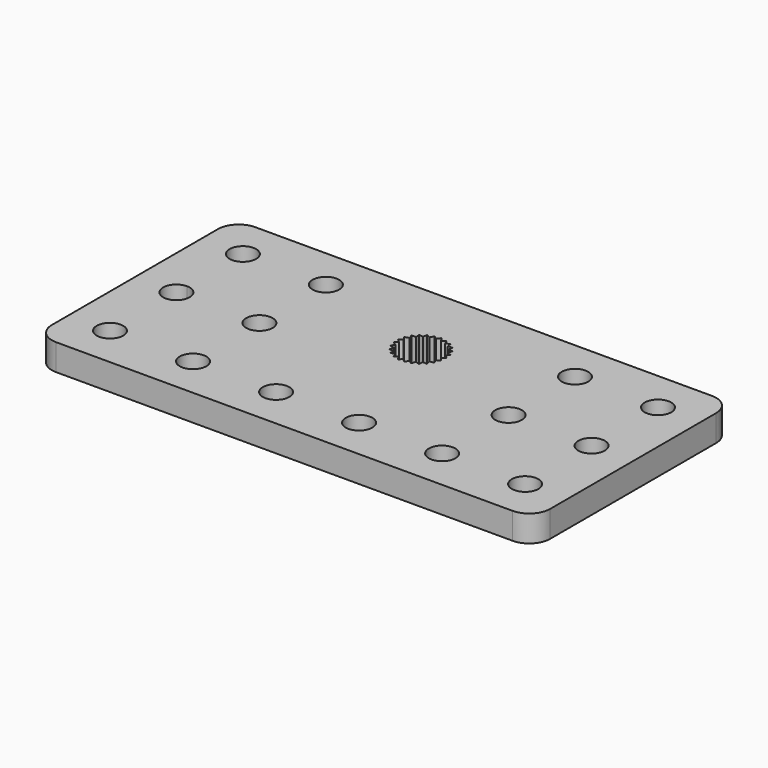
from build123d import *

# Parameters (mm, degrees)
F0_R     = 1.6
F1_DEPTH = 3.175


with BuildPart() as f1:
    # F0 (on Top) → F1 (new body)
    with BuildSketch(Plane.XY):
        with BuildLine():
            ThreePointArc((0.286293, 2.742051), (1.018526, 0.974284), (2.786293, 0.242051))
            Line((2.786293, 0.242051), (57.786293, 0.242051))
            ThreePointArc((57.786293, 0.242051), (59.55406, 0.974284), (60.286293, 2.742051))
            Line((60.286293, 2.742051), (60.286293, 27.742051))
            ThreePointArc((60.286293, 27.742051), (59.55406, 29.509818), (57.786293, 30.242051))
            Line((57.786293, 30.242051), (2.786293, 30.242051))
            ThreePointArc((2.786293, 30.242051), (1.018526, 29.509818), (0.286293, 27.742051))
            Line((0.286293, 27.742051), (0.286293, 2.742051))
        make_face()
        with Locations((5.286293, 5.242051)):
            Circle(F0_R, mode=Mode.SUBTRACT)
        with Locations((15.286293, 5.242051)):
            Circle(F0_R, mode=Mode.SUBTRACT)
        with Locations((25.286293, 5.242051)):
            Circle(F0_R, mode=Mode.SUBTRACT)
        with BuildLine():
            ThreePointArc((6.886293, 15.242051), (4.154922, 14.11068), (5.286293, 16.842051))
            ThreePointArc((5.286293, 16.842051), (6.417664, 16.373422), (6.886293, 15.242051))
        make_face(mode=Mode.SUBTRACT)
        with Locations((15.286293, 15.242051)):
            Circle(F0_R, mode=Mode.SUBTRACT)
        with Locations((35.286293, 5.242051)):
            Circle(F0_R, mode=Mode.SUBTRACT)
        with Locations((45.286293, 5.242051)):
            Circle(F0_R, mode=Mode.SUBTRACT)
        with Locations((55.286293, 5.242051)):
            Circle(F0_R, mode=Mode.SUBTRACT)
        with Locations((45.286293, 15.242051)):
            Circle(F0_R, mode=Mode.SUBTRACT)
        with Locations((55.286293, 15.242051)):
            Circle(F0_R, mode=Mode.SUBTRACT)
        with BuildLine():
            ThreePointArc((5.286293, 23.642051), (4.154922, 26.373422), (6.886293, 25.242051))
            ThreePointArc((6.886293, 25.242051), (6.417664, 24.11068), (5.286293, 23.642051))
        make_face(mode=Mode.SUBTRACT)
        with BuildLine():
            ThreePointArc((16.886293, 25.242051), (15.286293, 23.642051), (13.686293, 25.242051))
            ThreePointArc((13.686293, 25.242051), (15.286293, 26.842051), (16.886293, 25.242051))
        make_face(mode=Mode.SUBTRACT)
        Polygon((28.197641, 21.692425), (28.029579, 22.193302), (28.556515, 22.231521), (28.518296, 22.758457), (29.038181, 22.664432), (29.132207, 23.184318), (29.612376, 22.963956), (29.832738, 23.444126), (30.24302, 23.111274), (30.575872, 23.521556), (30.890488, 23.097128), (31.314916, 23.411744), (31.514096, 22.922409), (32.003432, 23.12159), (32.074662, 22.598093), (32.598158, 22.669324), (32.536962, 22.14456), (33.061726, 22.083364), (32.87195, 21.590305), (33.365008, 21.400529), (33.058575, 20.970156), (33.488948, 20.663723), (33.085113, 20.323078), (33.425758, 19.919242), (32.949895, 19.689729), (33.179408, 19.213866), (32.661417, 19.109906), (32.765378, 18.591915), (32.237807, 18.62004), (32.209682, 18.092469), (31.70568, 18.250912), (31.547237, 17.74691), (31.098473, 18.025715), (30.819667, 17.57695), (30.454338, 17.9586), (30.072688, 17.59327), (29.813748, 18.053783), (29.353235, 17.794842), (29.216955, 18.305283), (28.706515, 18.169003), (28.701457, 18.697299), (28.173162, 18.692242), (28.299645, 19.205198), (27.786689, 19.331681), (28.036766, 19.797067), (27.571381, 20.047144), (27.929337, 20.435717), (27.540764, 20.793673), (27.98411, 21.081018), (27.696765, 21.524363), align=None, mode=Mode.SUBTRACT)
        with Locations((45.286293, 25.242051)):
            Circle(F0_R, mode=Mode.SUBTRACT)
        with Locations((55.286293, 25.242051)):
            Circle(F0_R, mode=Mode.SUBTRACT)
    extrude(amount=F1_DEPTH)


solid = f1.part
